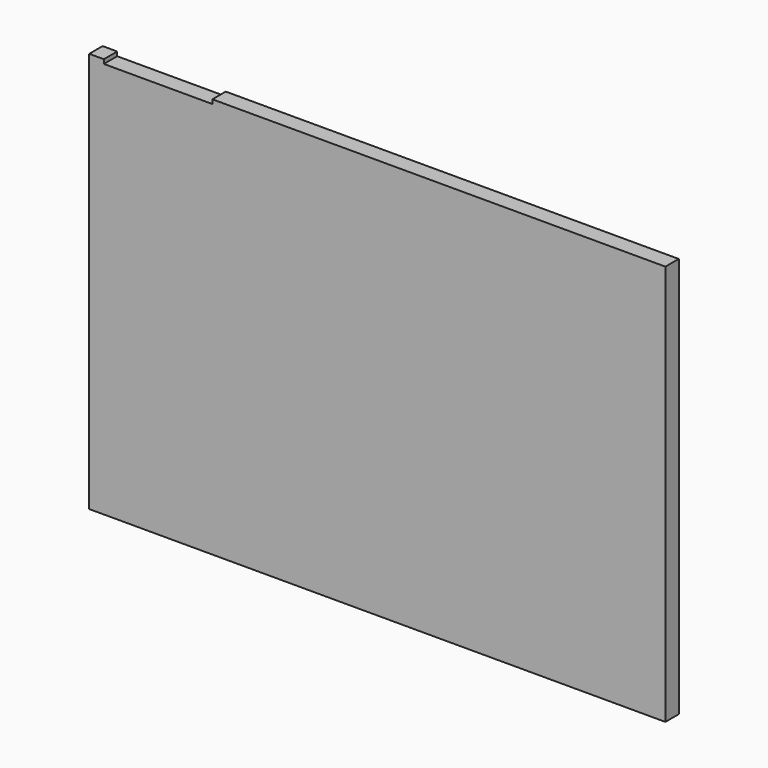
from build123d import *

# Parameters (mm, degrees)
F0_W     = 3505.2
F0_H     = 88.9
F1_DEPTH = 38.1
F2_W     = 38.1
F2_H     = 89.067161
F2_H_2   = 88.9
F3_DEPTH = 2286
F4_W     = 3505.2
F4_H     = 114.3
F5_DEPTH = 88.9
F6_W     = 3505.2
F6_H     = 2438.4
F7_DEPTH = 12.7
F8_W     = 660.4
F8_H     = 25.4
F9_DEPTH = 132.08


with BuildPart() as f1:
    # F0 (on Top) → F1 (new body)
    with BuildSketch(Plane.XY):
        with Locations((-0.428095, -210.635948)):
            Rectangle(F0_W, F0_H)
    extrude(amount=F1_DEPTH)

    # F2 (on face) → F3 (join)
    with BuildSketch(Plane.XY.offset(38.1)):
        with Locations((1733.121905, -210.552368)):
            Rectangle(F2_W, F2_H)
        with Locations((1326.721905, -210.635948)):
            Rectangle(F2_W, F2_H_2)
        with Locations((920.321905, -210.635948)):
            Rectangle(F2_W, F2_H_2)
        with Locations((513.921905, -210.635948)):
            Rectangle(F2_W, F2_H_2)
        with Locations((107.521905, -210.635948)):
            Rectangle(F2_W, F2_H_2)
        with Locations((-298.878095, -210.635948)):
            Rectangle(F2_W, F2_H_2)
        with Locations((-705.278095, -210.635948)):
            Rectangle(F2_W, F2_H_2)
        with Locations((-1111.678095, -210.635948)):
            Rectangle(F2_W, F2_H_2)
        with Locations((-1518.078095, -210.635948)):
            Rectangle(F2_W, F2_H_2)
        with Locations((-1733.978095, -210.635948)):
            Rectangle(F2_W, F2_H_2)
    extrude(amount=F3_DEPTH)

    # F4 (on face) → F5 (join)
    with BuildSketch(Plane(origin=(0, -166.185948, 0), x_dir=(-1, 0, 0), z_dir=(0, 1, 0))):
        with Locations((0.428095, 2381.25)):
            Rectangle(F4_W, F4_H)
    extrude(amount=-F5_DEPTH)

    # F6 (on face) → F7 (join)
    with BuildSketch(Plane.XZ.offset(255.085948)):
        with Locations((-0.428095, 1219.2)):
            Rectangle(F6_W, F6_H)
    extrude(amount=F7_DEPTH)

    # F8 (on face) → F9 (cut)
    with BuildSketch(Plane.XZ.offset(267.785948)):
        with Locations((-1333.928095, 2425.7)):
            Rectangle(F8_W, F8_H)
    extrude(amount=-F9_DEPTH, mode=Mode.SUBTRACT)


solid = f1.part
